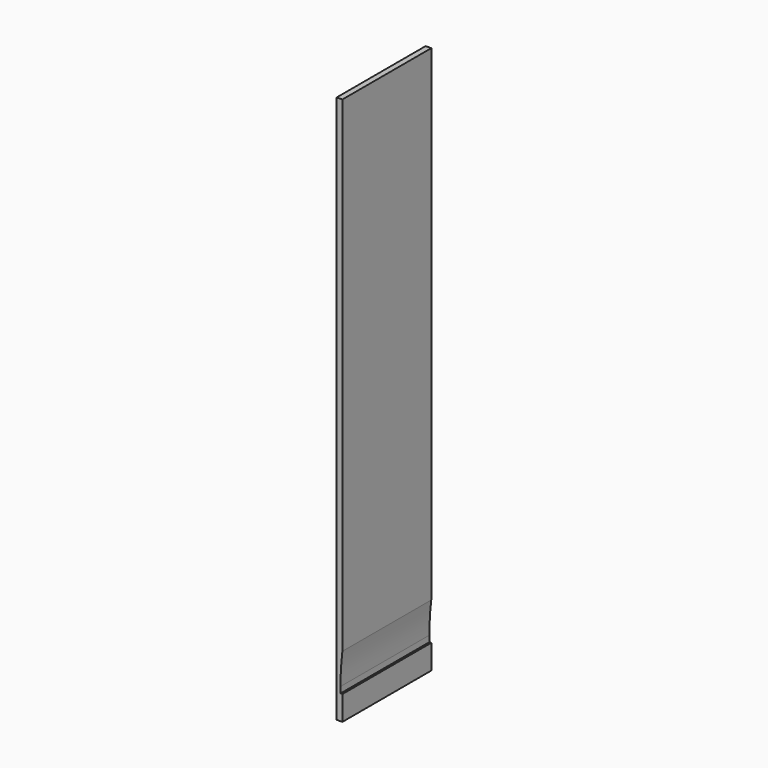
from build123d import *

# Parameters (mm, degrees)
F0_W     = 19.05
F0_H     = 1847.85
F1_DEPTH = 374.65
F3_DEPTH = 374.651


with BuildPart() as f1:
    # F0 (on Front) → F1 (new body)
    with BuildSketch(Plane.XZ):
        with Locations((-9.525, 923.925)):
            Rectangle(F0_W, F0_H)
    extrude(amount=F1_DEPTH)

    # F2 (on face) → F3 (cut, through all)
    with BuildSketch(Plane(origin=(0, 0, 0), x_dir=(-1, 0, 0), z_dir=(0, 1, 0))):
        with BuildLine():
            ThreePointArc((6.35, 103.1133947655), (4.7389469003, 156.5427900913), (0, 209.7859883352))
            Line((0, 209.7859883352), (0, 82.55))
            Line((0, 82.55), (6.35, 82.55))
            Line((6.35, 82.55), (6.35, 101.6))
            Line((6.35, 101.6), (6.35, 103.1133947655))
        make_face()
        Polygon((0, 82.55), (0, 209.7859883352), (-25.7673989981, 209.7859883352), (-37.0378904045, 82.55), align=None)
    extrude(amount=-F3_DEPTH, mode=Mode.SUBTRACT)


solid = f1.part
